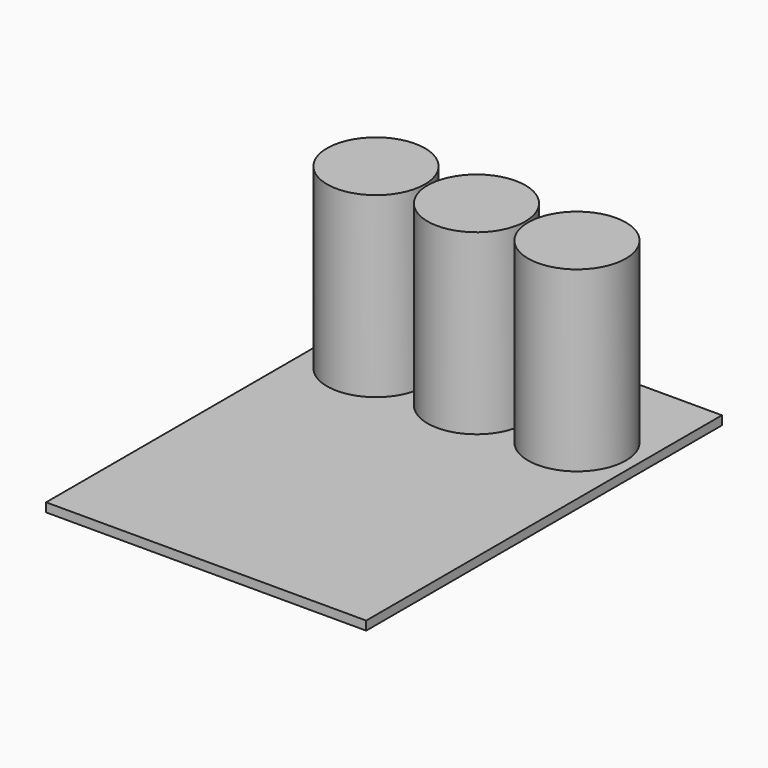
from build123d import *

# Parameters (mm, degrees)
F0_W     = 36
F0_H     = 50
F1_DEPTH = 1
F2_R     = 5.5
F3_DEPTH = 20


with BuildPart() as f1:
    # F0 (on Top) → F1 (new body)
    with BuildSketch(Plane.XY):
        Rectangle(F0_W, F0_H)
    extrude(amount=F1_DEPTH)

    # F2 (on face) → F3 (join)
    with BuildSketch(Plane.XY.offset(1)):
        with Locations((-11.3, 13)):
            Circle(F2_R)
        with Locations((0, 13)):
            Circle(F2_R)
        with Locations((11.3, 13)):
            Circle(F2_R)
    extrude(amount=F3_DEPTH)


solid = f1.part
